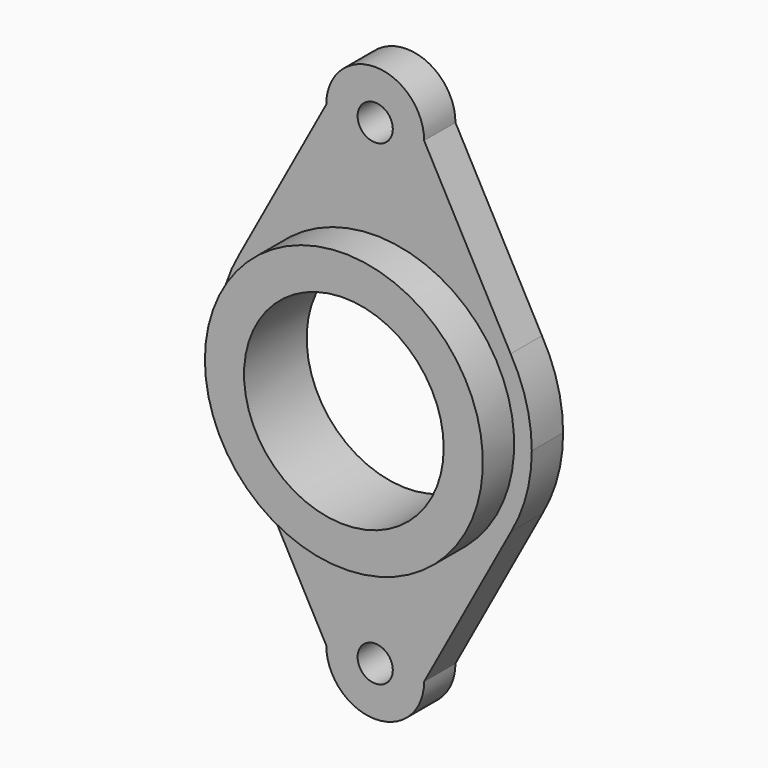
from build123d import *

# Parameters (mm, degrees)
F0_R     = 4.5
F1_DEPTH = 10
F2_DEPTH = 20


with BuildPart() as f1:
    # F0 (on Front) → F1 (new body)
    with BuildSketch(Plane.XZ):
        with BuildLine():
            ThreePointArc((-114.46815, 5.159376), (-78.96815, 40.659376), (-43.46815, 5.159376))
            Line((-43.46815, 5.159376), (-38.96815, 5.159376))
            ThreePointArc((-38.96815, 5.159376), (-40.343018, 15.556453), (-44.37311, 25.2388))
            Line((-44.37311, 25.2388), (-66.46815, 65.987376))
            ThreePointArc((-66.46815, 65.987376), (-78.96815, 78.487376), (-91.46815, 65.987376))
            Line((-91.46815, 65.987376), (-113.713972, 24.976738))
            ThreePointArc((-113.713972, 24.976738), (-117.632299, 15.410403), (-118.96815, 5.159376))
            Line((-118.96815, 5.159376), (-114.46815, 5.159376))
        make_face()
        with Locations((-78.96815, 65.987376)):
            Circle(F0_R, mode=Mode.SUBTRACT)
        with BuildLine():
            Line((-38.96815, 5.159376), (-43.46815, 5.159376))
            ThreePointArc((-43.46815, 5.159376), (-78.96815, -30.340624), (-114.46815, 5.159376))
            Line((-114.46815, 5.159376), (-118.96815, 5.159376))
            ThreePointArc((-118.96815, 5.159376), (-117.723611, -4.740837), (-114.067439, -14.02499))
            Line((-114.067439, -14.02499), (-91.46815, -55.668624))
            ThreePointArc((-91.46815, -55.668624), (-78.96815, -68.168624), (-66.46815, -55.668624))
            Line((-66.46815, -55.668624), (-44.195716, -14.611255))
            ThreePointArc((-44.195716, -14.611255), (-40.297118, -5.065658), (-38.96815, 5.159376))
        make_face()
        with Locations((-78.96815, -55.668624)):
            Circle(F0_R, mode=Mode.SUBTRACT)
    extrude(amount=F1_DEPTH)

    # F0 (on Front) → F2 (join)
    with BuildSketch(Plane.XZ):
        with BuildLine():
            ThreePointArc((-104.46815, 5.159376), (-78.96815, 30.659376), (-53.46815, 5.159376))
            Line((-53.46815, 5.159376), (-43.46815, 5.159376))
            ThreePointArc((-43.46815, 5.159376), (-78.96815, 40.659376), (-114.46815, 5.159376))
            Line((-114.46815, 5.159376), (-104.46815, 5.159376))
        make_face()
        with BuildLine():
            Line((-43.46815, 5.159376), (-53.46815, 5.159376))
            ThreePointArc((-53.46815, 5.159376), (-78.96815, -20.340624), (-104.46815, 5.159376))
            Line((-104.46815, 5.159376), (-114.46815, 5.159376))
            ThreePointArc((-114.46815, 5.159376), (-78.96815, -30.340624), (-43.46815, 5.159376))
        make_face()
    extrude(amount=F2_DEPTH)


solid = f1.part
